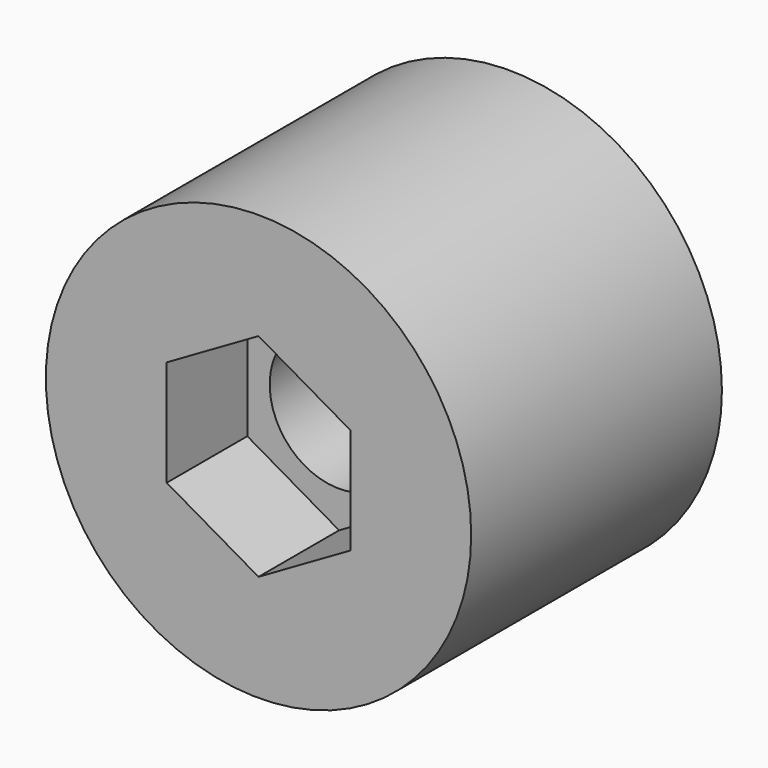
from build123d import *

# Parameters (mm, degrees)
F0_R     = 9.5
F0_R_2   = 3.1
F1_DEPTH = 14
F2_R     = 3.1
F3_DEPTH = 4.5


with BuildPart() as f1:
    # F0 (on Front) → F1 (new body)
    with BuildSketch(Plane.XZ):
        Circle(F0_R)
        Polygon((0, 4.849742), (4.2, 2.424871), (4.2, -2.424871), (0, -4.849742), (-4.2, -2.424871), (-4.2, 2.424871), align=None, mode=Mode.SUBTRACT)
        Polygon((4.2, -2.424871), (4.2, 2.424871), (0, 4.849742), (-4.2, 2.424871), (-4.2, -2.424871), (0, -4.849742), align=None)
        Circle(F0_R_2, mode=Mode.SUBTRACT)
    extrude(amount=F1_DEPTH)

    # F2 (on face) → F3 (cut)
    with BuildSketch(Plane.XZ.offset(14)):
        Polygon((4.1, -2.367136), (4.1, 0), (4.1, 2.367136), (0, 4.734272), (-4.1, 2.367136), (-4.1, -2.367136), (0, -4.734272), align=None)
        Circle(F2_R, mode=Mode.SUBTRACT)
    extrude(amount=-F3_DEPTH, mode=Mode.SUBTRACT)


solid = f1.part
